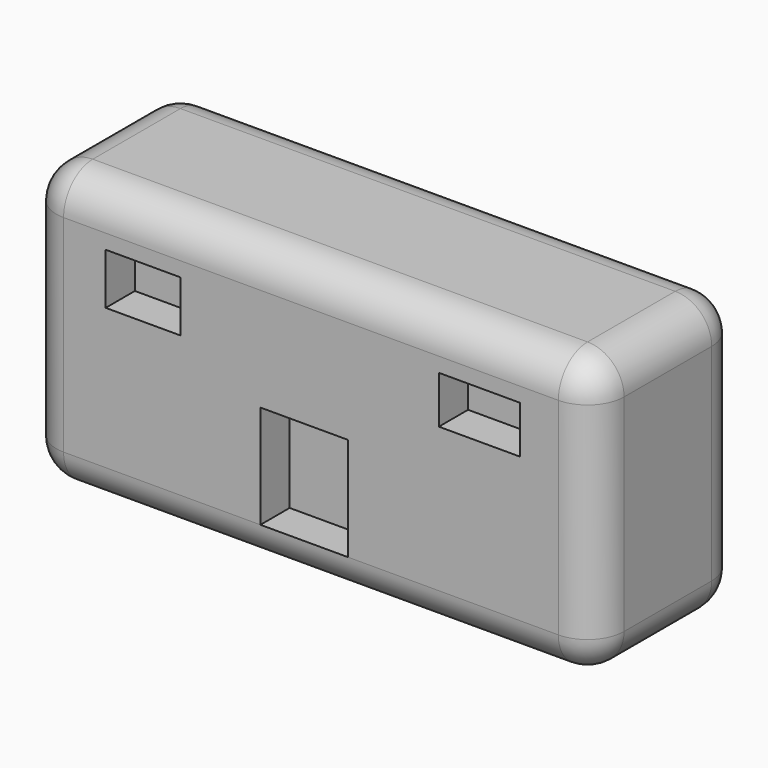
from build123d import *

# Parameters (mm, degrees)
F0_W     = 77.725055
F0_H     = 38.264645
F1_DEPTH = 25
F2_R     = 5
F3_W     = 10.249458
F3_H     = 7.003797
F3_W_2   = 11.10358
F3_H_2   = 6.491324
F3_W_3   = 11.957702
F3_H_3   = 14.132324
F4_DEPTH = 5


with BuildPart() as f1:
    # F0 (on Front) → F1 (new body)
    with BuildSketch(Plane.XZ):
        with Locations((-13.49512, -13.496899)):
            Rectangle(F0_W, F0_H)
    extrude(amount=F1_DEPTH)

    # F2
    f2_edges = [f1.edges().sort_by_distance(p)[0] for p in [
        (-52.357648, -25, -13.496899),
        (25.367407, -12.5, 5.635423),
        (-52.357648, -12.5, 5.635423),
        (-13.49512, 0, 5.635423),
        (-13.49512, -25, 5.635423),
        (-13.49512, -25, -32.629222),
        (25.367407, -25, -13.496899),
        (25.367407, -12.5, -32.629222),
        (25.367407, 0, -13.496899),
        (-52.357648, 0, -13.496899),
        (-13.49512, 0, -32.629222),
        (-52.357648, -12.5, -32.629222),
    ]]
    fillet(f2_edges, radius=F2_R)

    # F3 (on face) → F4 (cut)
    with BuildSketch(Plane.XZ.offset(25)):
        with Locations((-36.470987, -4.870271)):
            Rectangle(F3_W, F3_H)
        with Locations((9.566161, -4.614035)):
            Rectangle(F3_W_2, F3_H_2)
        with Locations((-14.434654, -20.56306)):
            Rectangle(F3_W_3, F3_H_3)
    extrude(amount=-F4_DEPTH, mode=Mode.SUBTRACT)


solid = f1.part
